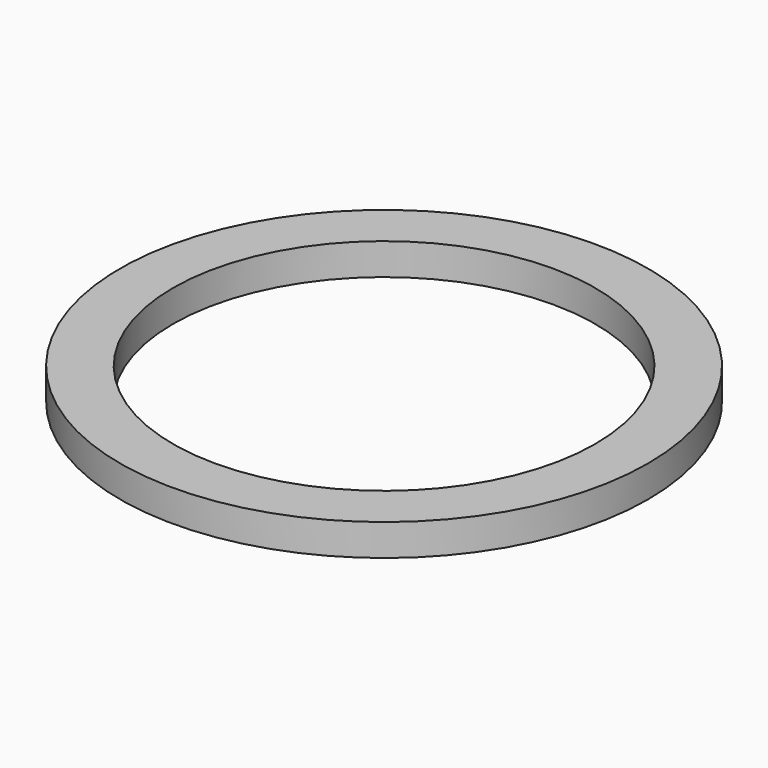
from build123d import *

# Parameters (mm, degrees)
SKETCH_R   = 25
SKETCH_R_2 = 20
PAD_DEPTH  = 3


with BuildPart() as part:
    # Sketch → Pad (new body)
    with BuildSketch(Plane.XY):
        Circle(SKETCH_R)
        Circle(SKETCH_R_2, mode=Mode.SUBTRACT)
    extrude(amount=PAD_DEPTH)


solid = part.part
